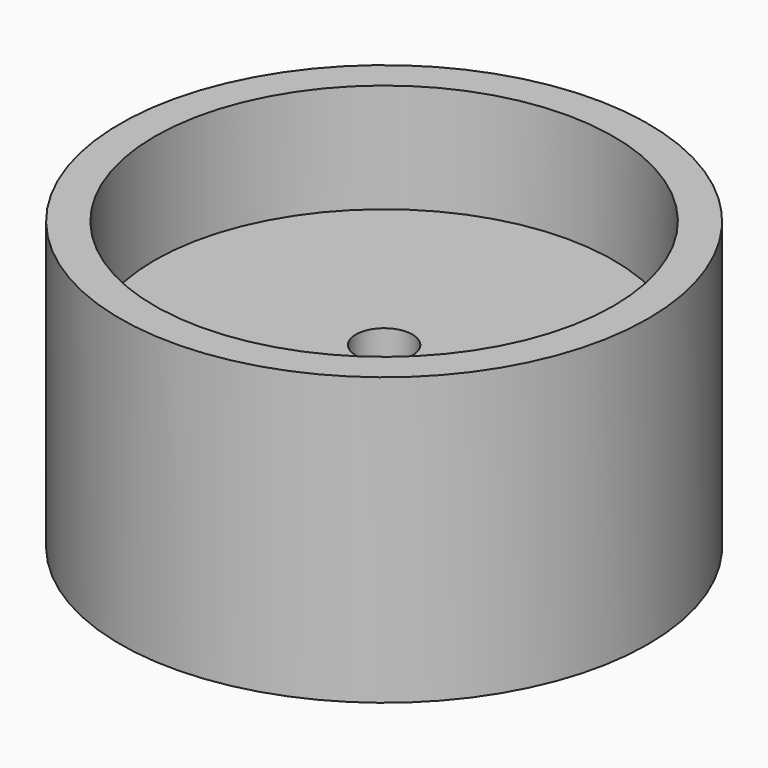
from build123d import *

# Parameters (mm, degrees)
F0_W     = 5.8166
F0_H     = 48.26
F2_R     = 38.6334
F2_R_2   = 4.7625
F3_DEPTH = 5.7912


with BuildPart() as f1:
    # F0 (on Front) → F1 (revolve)
    with BuildSketch(Plane.XZ):
        with Locations((41.5417, 0)):
            Rectangle(F0_W, F0_H)
    revolve(axis=Axis((0, 0, 0), (0, 0, -1)))

    # F2 (on Top) → F3 (join, symmetric)
    with BuildSketch(Plane.XY):
        Circle(F2_R)
        Circle(F2_R_2, mode=Mode.SUBTRACT)
    extrude(amount=F3_DEPTH, both=True)


solid = f1.part
